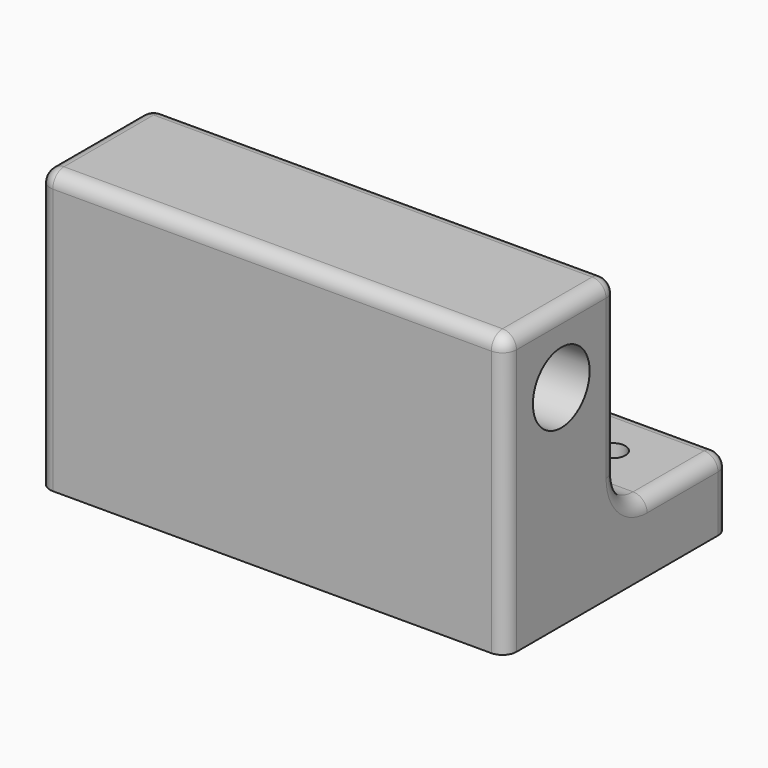
from build123d import *

# Parameters (mm, degrees)
F0_R     = 7.6
F1_DEPTH = 100
F2_R     = 2.75
F3_DEPTH = 15
F4_R     = 3


with BuildPart() as f1:
    # F0 (on Right) → F1 (new body)
    with BuildSketch(Plane.YZ):
        with BuildLine():
            Line((0, 60), (0, 0))
            Line((0, 0), (60, 0))
            Line((60, 0), (60, 15))
            Line((60, 15), (38, 15))
            ThreePointArc((38, 15), (32.343146, 17.343146), (30, 23))
            Line((30, 23), (30, 60))
            Line((30, 60), (0, 60))
        make_face()
        with Locations((15, 45)):
            Circle(F0_R, mode=Mode.SUBTRACT)
    extrude(amount=F1_DEPTH)

    # F2 (on Top) → F3 (cut)
    with BuildSketch(Plane.XY):
        with Locations((15, 47.5)):
            Circle(F2_R)
        with Locations((85, 47.5)):
            Circle(F2_R)
    extrude(amount=F3_DEPTH, mode=Mode.SUBTRACT)

    # F4
    f4_edges = [f1.edges().sort_by_distance(p)[0] for p in [
        (100, 15, 60),
        (0, 15, 60),
        (50, 30, 60),
        (50, 0, 60),
        (100, 49, 15),
        (50, 60, 15),
        (0, 49, 15),
        (100, 0, 30),
        (0, 0, 30),
        (0, 60, 7.5),
        (100, 60, 7.5),
    ]]
    fillet(f4_edges, radius=F4_R)


solid = f1.part
